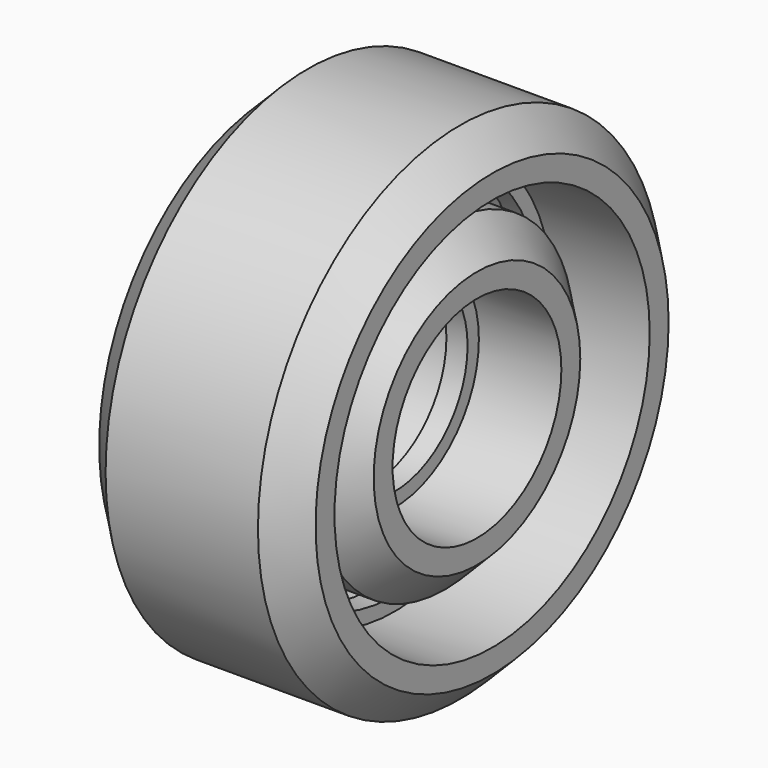
from build123d import *


with BuildPart() as f2:
    # F0 (on Top) → F2 (revolve)
    with BuildSketch(Plane.XY):
        Polygon((-0.5, 4.32), (0, 4.32), (0.5, 4.32), (0.5, 4.987), (4.4, 4.987), (4.4, 6.105), (2.886791, 7.618209), (0, 7.618209), (-2.886791, 7.618209), (-4.4, 6.105), (-4.4, 4.987), (-0.5, 4.987), align=None)
    revolve(axis=Axis((2.287702, 0, 0), (1, 0, 0)))


with BuildPart() as f3:
    # F1 (on Top) → F3 (revolve)
    with BuildSketch(Plane.XY):
        Polygon((-0.5, 8.647), (0, 8.647), (0.5, 8.647), (0.5, 9.314), (5.115, 9.314), (5.115, 10.432), (3.601791, 11.945209), (0, 11.945209), (-3.601791, 11.945209), (-5.115, 10.432), (-5.115, 9.314), (-0.5, 9.314), align=None)
    revolve(axis=Axis((2.211445, 0, 0), (1, 0, 0)))


solid = Compound([f2.part, f3.part])
